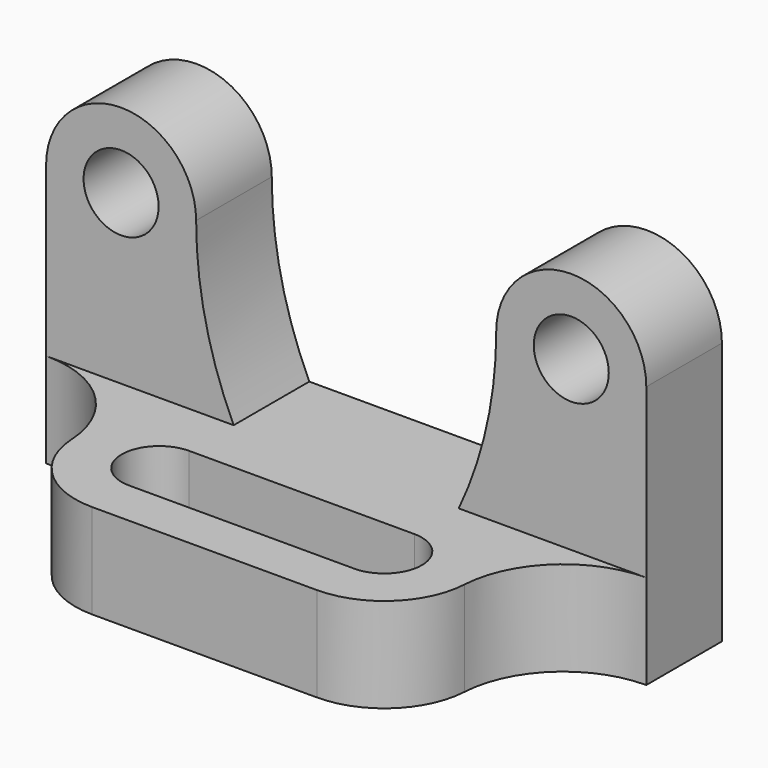
from build123d import *

# Parameters (mm, degrees)
F0_R     = 6.35
F1_DEPTH = 16.002
F2_DEPTH = 45.974
F4_DEPTH = 25.4
F5_DEPTH = 25.4


with BuildPart() as f1:
    # F0 (on Front) → F1 (new body)
    with BuildSketch(Plane.XZ):
        with BuildLine():
            ThreePointArc((76.2, 28.448), (74.593204, 13.873955), (69.85, 0))
            Line((69.85, 0), (101.6, 0))
            Line((101.6, 0), (101.6, 28.448))
            ThreePointArc((101.6, 28.448), (88.9, 41.148), (76.2, 28.448))
        make_face()
        with Locations((88.9, 28.448)):
            Circle(F0_R, mode=Mode.SUBTRACT)
        with BuildLine():
            Line((0, 28.448), (0, 0))
            Line((0, 0), (31.75, 0))
            ThreePointArc((31.75, 0), (27.006796, 13.873955), (25.4, 28.448))
            ThreePointArc((25.4, 28.448), (12.7, 41.148), (0, 28.448))
        make_face()
        with Locations((12.7, 28.448)):
            Circle(F0_R, mode=Mode.SUBTRACT)
    extrude(amount=F1_DEPTH)

    # F0 (on Front) → F2 (join)
    with BuildSketch(Plane.XZ):
        Polygon((31.75, 0), (0, 0), (0, -16.002), (101.6, -16.002), (101.6, 0), (69.85, 0), align=None)
    extrude(amount=F2_DEPTH)

    # F3 (on face) → F4 (cut)
    with BuildSketch(Plane.XY):
        with BuildLine():
            ThreePointArc((31.75, -45.974), (21.985897, -42.09333), (17.549587, -32.56881))
            ThreePointArc((17.549587, -32.56881), (12.066972, -20.797928), (0, -16.002))
            Line((0, -16.002), (0, -45.974))
            Line((0, -45.974), (31.75, -45.974))
        make_face()
        with BuildLine():
            ThreePointArc((84.050413, -32.56881), (79.614103, -42.09333), (69.85, -45.974))
            Line((69.85, -45.974), (101.6, -45.974))
            Line((101.6, -45.974), (101.6, -16.002))
            ThreePointArc((101.6, -16.002), (89.533028, -20.797928), (84.050413, -32.56881))
        make_face()
    extrude(amount=-F4_DEPTH, mode=Mode.SUBTRACT)

    # F3 (on face) → F5 (cut)
    with BuildSketch(Plane.XY):
        with BuildLine():
            Line((31.75, -38.1), (69.85, -38.1))
            ThreePointArc((69.85, -38.1), (76.2, -31.75), (69.85, -25.4))
            Line((69.85, -25.4), (31.75, -25.4))
            ThreePointArc((31.75, -25.4), (25.4, -31.75), (31.75, -38.1))
        make_face()
    extrude(amount=-F5_DEPTH, mode=Mode.SUBTRACT)


solid = f1.part
